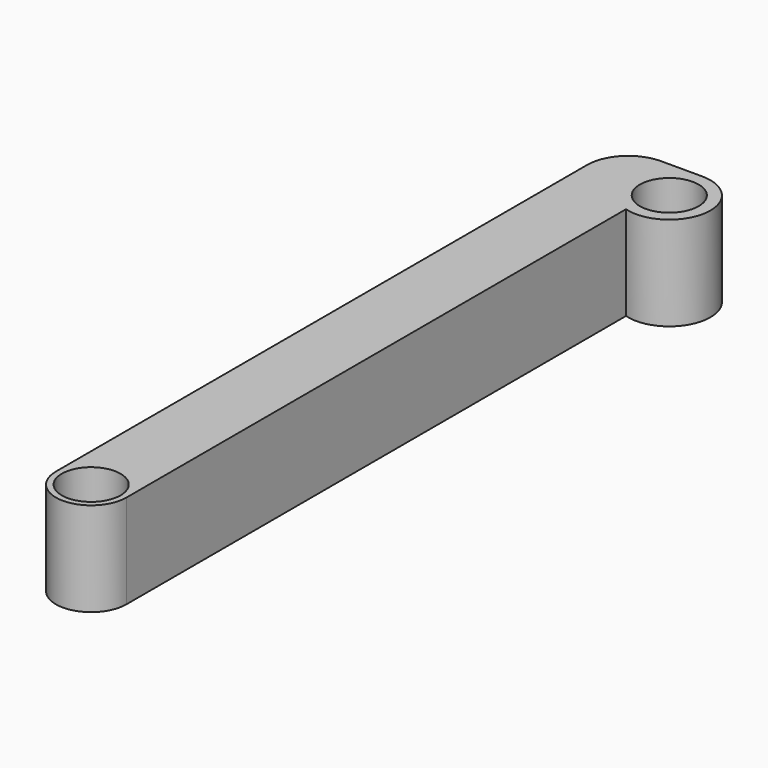
from build123d import *

# Parameters (mm, degrees)
F0_R     = 2.5
F1_DEPTH = 8


with BuildPart() as f1:
    # F0 (on Top) → F1 (new body)
    with BuildSketch(Plane.XY):
        with BuildLine():
            ThreePointArc((-3.5, 3.5), (-5.9748737342, 2.4748737342), (-7, 0))
            Line((-7, 0), (-7, -56.5))
            ThreePointArc((-7, -56.5), (-4, -59.5), (-1, -56.5))
            Line((-1, -56.5), (-1, -3.3541019662))
            ThreePointArc((-1, -3.3541019662), (3.4633334291, -0.5052935375), (0, 3.5))
            Line((0, 3.5), (-3.5, 3.5))
        make_face()
        with Locations((-4, -56.5)):
            Circle(F0_R, mode=Mode.SUBTRACT)
        with BuildLine():
            ThreePointArc((-2.5, 0), (0, 2.5), (2.5, 0))
            ThreePointArc((2.5, 0), (0, -2.5), (-2.5, 0))
        make_face(mode=Mode.SUBTRACT)
    extrude(amount=F1_DEPTH)


solid = f1.part
